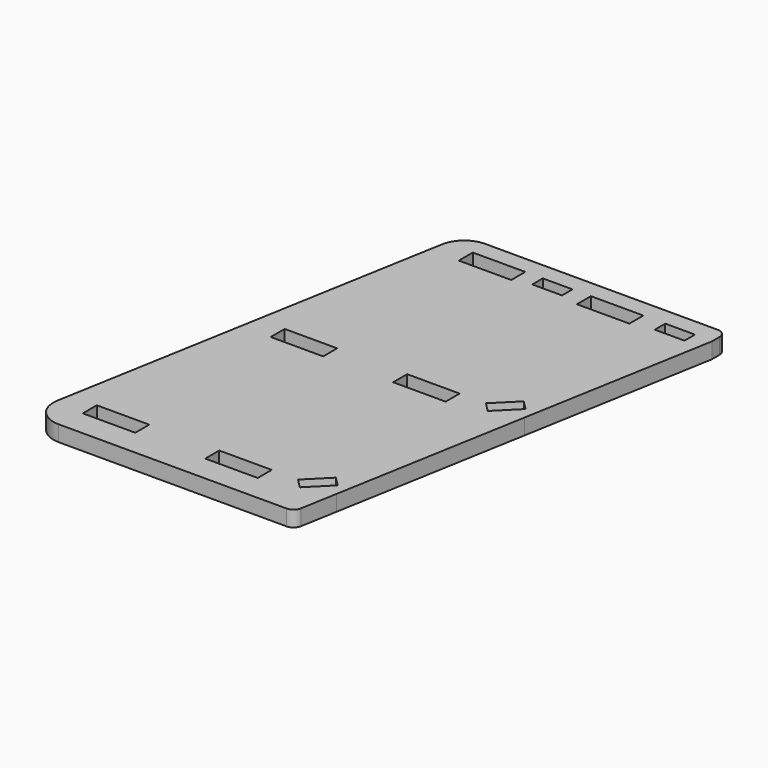
from build123d import *

# Parameters (mm, degrees)
F0_W     = 60
F0_H     = 20
F0_W_2   = 34
F0_H_2   = 15
F1_DEPTH = 18


with BuildPart() as f1:
    # F0 (on Top) → F1 (new body)
    with BuildSketch(Plane.XY):
        with BuildLine():
            ThreePointArc((115.136532, 510.208606), (95.852904, 503.18994), (85.592299, 485.418052))
            Line((85.592299, 485.418052), (6.208375, 35.209445))
            ThreePointArc((6.208375, 35.209445), (12.771274, 10.716372), (35.752608, 0))
            Line((35.752608, 0), (296.236987, 0))
            ThreePointArc((296.236987, 0), (302.664863, 2.339556), (306.085065, 8.263518))
            Line((306.085065, 8.263518), (313.444333, 50))
            Line((313.444333, 50), (352.236268, 270))
            Line((352.236268, 270), (390.899802, 489.271795))
            Line((390.899802, 489.271795), (390.899802, 500.208606))
            ThreePointArc((390.899802, 500.208606), (387.97087, 507.279674), (380.899802, 510.208606))
            Line((380.899802, 510.208606), (115.136532, 510.208606))
        make_face()
        with Locations((69.279147, 40)):
            Rectangle(F0_W, F0_H, mode=Mode.SUBTRACT)
        with Locations((209.279147, 40)):
            Rectangle(F0_W, F0_H, mode=Mode.SUBTRACT)
        Polygon((303.92738, 63.435029), (290.492351, 50), (279.885749, 39.393398), (269.279147, 50), (293.320778, 74.041631), align=None, mode=Mode.SUBTRACT)
        with Locations((108.071083, 260)):
            Rectangle(F0_W, F0_H, mode=Mode.SUBTRACT)
        with Locations((146.899802, 480.208606)):
            Rectangle(F0_W, F0_H, mode=Mode.SUBTRACT)
        with Locations((248.071083, 260)):
            Rectangle(F0_W, F0_H, mode=Mode.SUBTRACT)
        Polygon((342.719315, 283.435029), (329.284287, 270), (318.677685, 259.393398), (308.071083, 270), (332.112714, 294.041631), align=None, mode=Mode.SUBTRACT)
        with Locations((213.899802, 482.708606)):
            Rectangle(F0_W_2, F0_H_2, mode=Mode.SUBTRACT)
        with Locations((281.899802, 480.208606)):
            Rectangle(F0_W, F0_H, mode=Mode.SUBTRACT)
        with Locations((353.899802, 482.708606)):
            Rectangle(F0_W_2, F0_H_2, mode=Mode.SUBTRACT)
    extrude(amount=F1_DEPTH)


solid = f1.part
